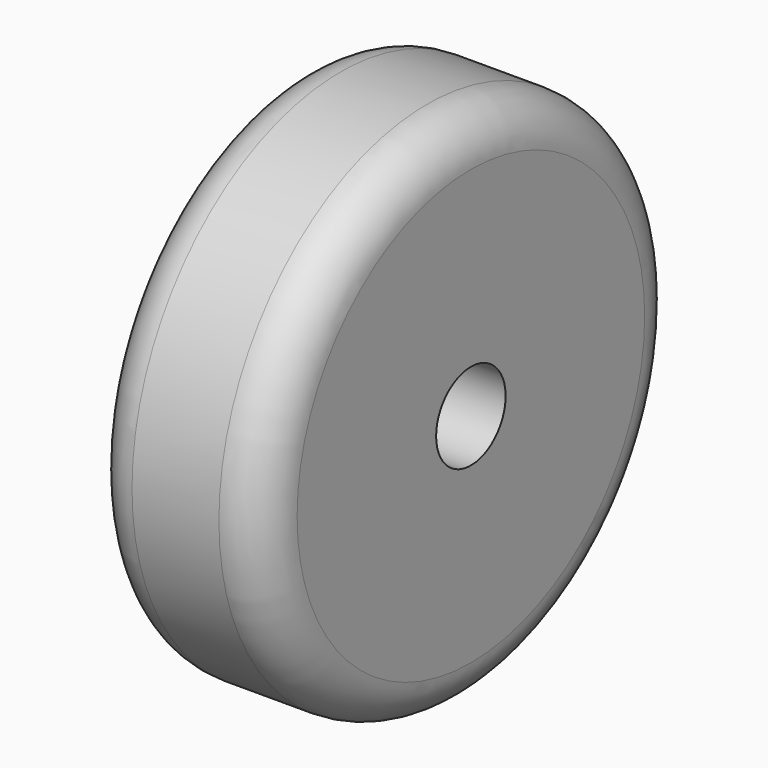
from build123d import *

# Parameters (mm, degrees)
F0_R     = 38.1
F1_DEPTH = 25.4
F3_D     = 12.7
F4_R     = 6.35
F5_R     = 6.35


with BuildPart() as f1:
    # F0 (on Right) → F1 (new body)
    with BuildSketch(Plane.YZ):
        Circle(F0_R)
    extrude(amount=F1_DEPTH)

    # F3 (through all)
    with Locations(Plane.YZ.offset(25.4)):
        with Locations((0, 0)):
            Hole(F3_D / 2)

    # F4
    f4_edges = [f1.edges().sort_by_distance(p)[0] for p in [
        (25.4, -38.1, 0),
    ]]
    fillet(f4_edges, radius=F4_R)

    # F5
    f5_edges = [f1.edges().sort_by_distance(p)[0] for p in [
        (0, -38.1, 0),
    ]]
    fillet(f5_edges, radius=F5_R)


solid = f1.part
